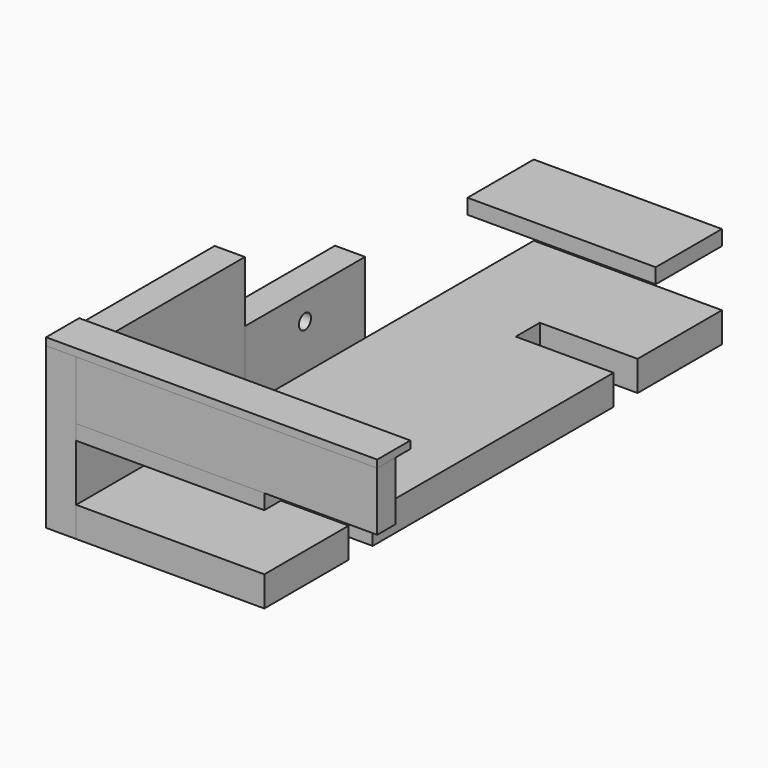
from build123d import *

# Parameters (mm, degrees)
BOX001_W       = 13
BOX001_H       = 4
BOX001_DEPTH   = 9
BOX_W          = 25
BOX_H          = 76
BOX_DEPTH      = 4
BOX002_W       = 4
BOX002_H       = 28
BOX002_DEPTH   = 21.6
BOX003_W       = 40
BOX003_H       = 3
BOX003_DEPTH   = 7.8
BOX004_W       = 44
BOX004_H       = 5.5
BOX004_DEPTH   = 1
BOX007_W       = 25
BOX007_H       = 54
BOX007_DEPTH   = 5
BOX005_W       = 25
BOX005_H       = 76
BOX005_DEPTH   = 2
CYLINDER_R     = 1
CYLINDER_DEPTH = 30
BOX006_W       = 4
BOX006_H       = 20
BOX006_DEPTH   = 13.5


with BuildPart() as cube001:
    # Box001 → Box001 (new body)
    with BuildSketch(Plane(origin=(12, 20, 0), x_dir=(1, 0, 0), z_dir=(0, 0, 1))):
        with Locations((6.5, 2)):
            Rectangle(BOX001_W, BOX001_H)
    extrude(amount=BOX001_DEPTH)


with BuildPart() as part_mirroring:
    # Part__Mirroring: instance of Cube001
    add(cube001.part.mirror(Plane(origin=(0, 0, 0), x_dir=(1, 0, 0), z_dir=(0, 1, 0))))


with BuildPart() as cut001:
    # Box → Box (new body)
    with BuildSketch(Plane(origin=(0, -38, 0), x_dir=(1, 0, 0), z_dir=(0, 0, 1))):
        with Locations((12.5, 38)):
            Rectangle(BOX_W, BOX_H)
    extrude(amount=BOX_DEPTH)

    # Cut: cut Cube001
    add(cube001.part, mode=Mode.SUBTRACT)

    # Cut001: cut Part__Mirroring
    add(part_mirroring.part, mode=Mode.SUBTRACT)


with BuildPart() as backplane:
    # Box002 → Box002 (new body)
    with BuildSketch(Plane(origin=(-4, 10, 0), x_dir=(1, 0, 0), z_dir=(0, 0, 1))):
        with Locations((2, 14)):
            Rectangle(BOX002_W, BOX002_H)
    extrude(amount=BOX002_DEPTH)


with BuildPart() as part_mirroring001:
    # Part__Mirroring001: instance of Backplane
    add(backplane.part.mirror(Plane(origin=(0, 0, 0), x_dir=(1, 0, 0), z_dir=(0, 1, 0))))


with BuildPart() as arm:
    # Box003 → Box003 (new body)
    with BuildSketch(Plane(origin=(0, 35, 13.5), x_dir=(1, 0, 0), z_dir=(0, 0, 1))):
        with Locations((20, 1.5)):
            Rectangle(BOX003_W, BOX003_H)
    extrude(amount=BOX003_DEPTH)


with BuildPart() as part_mirroring002:
    # Part__Mirroring002: instance of arm
    add(arm.part.mirror(Plane(origin=(0, 0, 0), x_dir=(1, 0, 0), z_dir=(0, 1, 0))))


with BuildPart() as top:
    # Box004 → Box004 (new body)
    with BuildSketch(Plane(origin=(-4, 32.5, 21.3), x_dir=(1, 0, 0), z_dir=(0, 0, 1))):
        with Locations((22, 2.75)):
            Rectangle(BOX004_W, BOX004_H)
    extrude(amount=BOX004_DEPTH)


with BuildPart() as part_mirroring003:
    # Part__Mirroring003: instance of top
    add(top.part.mirror(Plane(origin=(0, 0, 0), x_dir=(1, 0, 0), z_dir=(0, 1, 0))))


with BuildPart() as cube002:
    # Box007 → Box007 (new body)
    with BuildSketch(Plane(origin=(0, -27, 10), x_dir=(1, 0, 0), z_dir=(0, 0, 1))):
        with Locations((12.5, 27)):
            Rectangle(BOX007_W, BOX007_H)
    extrude(amount=BOX007_DEPTH)


with BuildPart() as cut002:
    # Box005 → Box005 (new body)
    with BuildSketch(Plane(origin=(0, -38, 11.5), x_dir=(1, 0, 0), z_dir=(0, 0, 1))):
        with Locations((12.5, 38)):
            Rectangle(BOX005_W, BOX005_H)
    extrude(amount=BOX005_DEPTH)

    # Cut002: cut Cube002
    add(cube002.part, mode=Mode.SUBTRACT)


with BuildPart() as cylinder:
    # Cylinder → Cylinder (new body)
    with BuildSketch(Plane(origin=(-4, 0, 10), x_dir=(0, 0, -1), z_dir=(1, 0, 0))):
        Circle(CYLINDER_R)
    extrude(amount=CYLINDER_DEPTH)


with BuildPart() as cut003:
    # Box006 → Box006 (new body)
    with BuildSketch(Plane(origin=(-4, -10, 0), x_dir=(1, 0, 0), z_dir=(0, 0, 1))):
        with Locations((2, 10)):
            Rectangle(BOX006_W, BOX006_H)
    extrude(amount=BOX006_DEPTH)

    # Cut003: cut Cylinder
    add(cylinder.part, mode=Mode.SUBTRACT)


solid = Compound([cut001.part, part_mirroring001.part, part_mirroring002.part, part_mirroring003.part, cut002.part, cut003.part])
